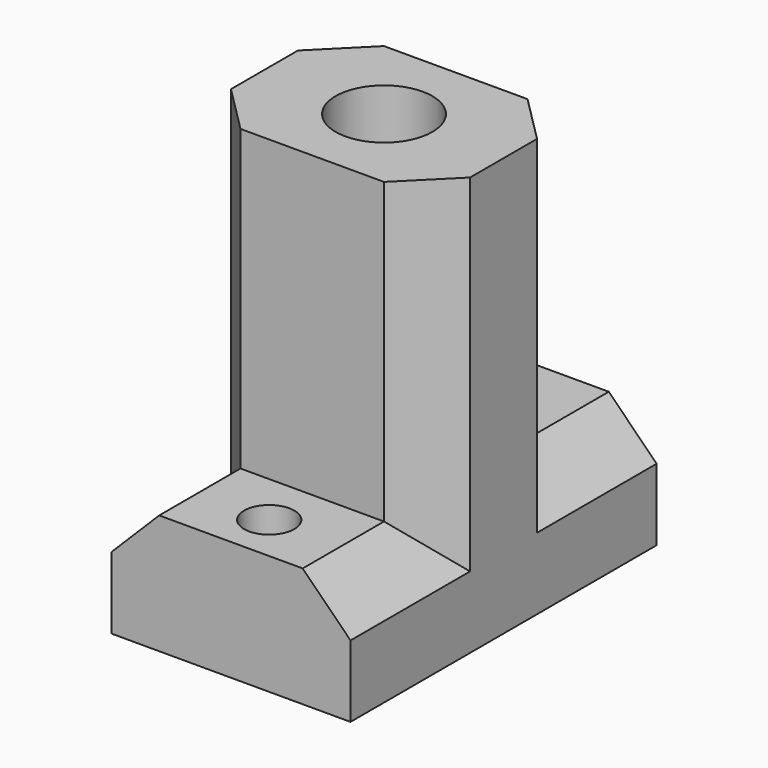
from build123d import *

# Parameters (mm, degrees)
F1_DEPTH = 10
F3_DEPTH = 25
F4_SIZE  = 4
F5_R     = 2.1
F6_DEPTH = 10.001
F7_R     = 4.05
F8_DEPTH = 25
F9_SIZE  = 4


with BuildPart() as f1:
    # F0 (on Top) → F1 (new body)
    with BuildSketch(Plane.XY):
        Polygon((-10, 16), (-10, 0), (-10, -16), (0, -16), (10, -16), (10, 0), (10, 16), (0, 16), align=None)
    extrude(amount=F1_DEPTH)

    # F2 (on face) → F3 (join)
    with BuildSketch(Plane.XY.offset(10)):
        Polygon((10, 7.5), (0, 7.5), (-10, 7.5), (-10, -7.5), (0, -7.5), (10, -7.5), (10, 0), align=None)
    extrude(amount=F3_DEPTH)

    # F4
    f4_edges = [f1.edges().sort_by_distance(p)[0] for p in [
        (-10, -7.5, 22.5),
        (10, -7.5, 22.5),
        (10, 7.5, 22.5),
        (-10, 7.5, 22.5),
    ]]
    chamfer(f4_edges, length=F4_SIZE)

    # F5 (on face) → F6 (cut, through all)
    with BuildSketch(Plane.XY.offset(10)):
        with Locations((0, 12)):
            Circle(F5_R)
        with Locations((0, -12)):
            Circle(F5_R)
    extrude(amount=-F6_DEPTH, mode=Mode.SUBTRACT)

    # F7 (on face) → F8 (cut)
    with BuildSketch(Plane.XY.offset(35)):
        Circle(F7_R)
    extrude(amount=-F8_DEPTH, mode=Mode.SUBTRACT)

    # F9
    f9_edges = [f1.edges().sort_by_distance(p)[0] for p in [
        (-10, 9.75, 10),
        (-10, -9.75, 10),
        (10, -9.75, 10),
        (10, 9.75, 10),
    ]]
    chamfer(f9_edges, length=F9_SIZE)


solid = f1.part
